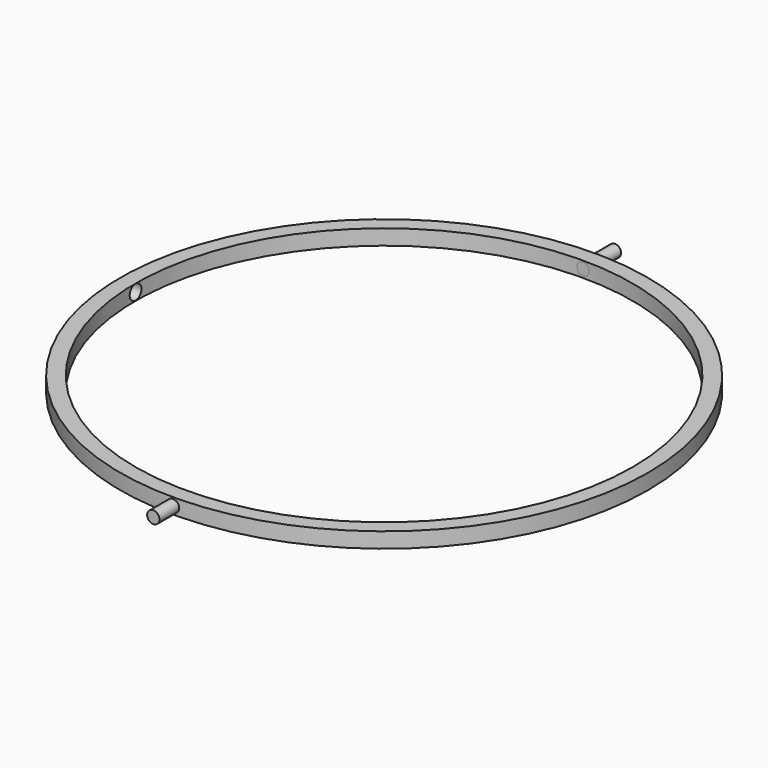
from build123d import *

# Parameters (mm, degrees)
F0_R          = 54.61
F0_R_2        = 51.435
F1_DEPTH      = 3.175
F2_R          = 1.27
F3_DEPTH      = 59.69
F3_DEPTH_BACK = 59.69
F4_R          = 51.435
F5_DEPTH      = 25.4
F6_R          = 1.524
F7_DEPTH      = 53.975
F7_DEPTH_BACK = 53.975


with BuildPart() as f1:
    # F0 (on Top) → F1 (new body)
    with BuildSketch(Plane.XY):
        Circle(F0_R)
        Circle(F0_R_2, mode=Mode.SUBTRACT)
    extrude(amount=F1_DEPTH)

    # F2 (on Front) → F3 (join, two sides)
    with BuildSketch(Plane.XZ) as f3_sk:
        with Locations((0, 1.5875)):
            Circle(F2_R)
    extrude(amount=F3_DEPTH)
    extrude(f3_sk.sketch, amount=-F3_DEPTH_BACK)

    # F4 (on Top) → F5 (cut)
    with BuildSketch(Plane.XY):
        Circle(F4_R)
    extrude(amount=F5_DEPTH, mode=Mode.SUBTRACT)

    # F6 (on Right) → F7 (cut, two sides)
    with BuildSketch(Plane.YZ) as f7_sk:
        with Locations((0, 1.5875)):
            Circle(F6_R)
    extrude(amount=-F7_DEPTH, mode=Mode.SUBTRACT)
    extrude(f7_sk.sketch, amount=F7_DEPTH_BACK, mode=Mode.SUBTRACT)


solid = f1.part
